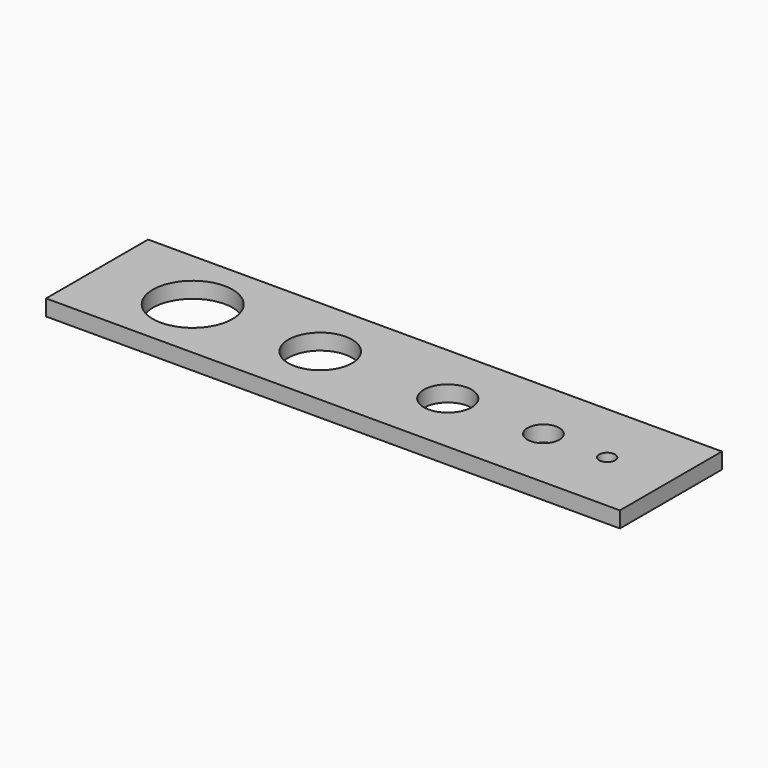
from build123d import *

# Parameters (mm, degrees)
F0_W     = 36
F0_H     = 8
F0_R     = 2.5
F0_R_2   = 2
F0_R_3   = 1.5
F0_R_4   = 1
F0_R_5   = 0.5
F1_DEPTH = 1


with BuildPart() as f1:
    # F0 (on Top) → F1 (new body)
    with BuildSketch(Plane.XY):
        with Locations((-4, 0)):
            Rectangle(F0_W, F0_H)
        with Locations((-16, 0)):
            Circle(F0_R, mode=Mode.SUBTRACT)
        with Locations((-8, 0)):
            Circle(F0_R_2, mode=Mode.SUBTRACT)
        Circle(F0_R_3, mode=Mode.SUBTRACT)
        with Locations((6, 0)):
            Circle(F0_R_4, mode=Mode.SUBTRACT)
        with Locations((10, 0)):
            Circle(F0_R_5, mode=Mode.SUBTRACT)
    extrude(amount=F1_DEPTH)


solid = f1.part
